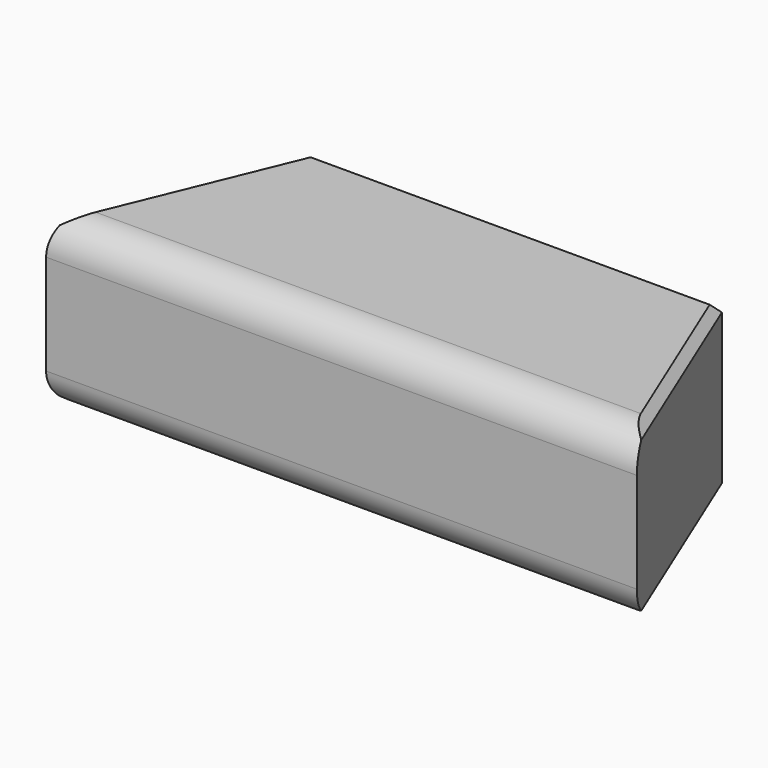
from build123d import *

# Parameters (mm, degrees)
F1_DEPTH = 25.4
F2_SIZE  = 1.27
F3_R     = 5.08
F4_SIZE  = 1.27


with BuildPart() as f1:
    # F0 (on Top) → F1 (new body)
    with BuildSketch(Plane.XY):
        Polygon((13.728917, 33.325016), (0, 0), (89.838997, 0), (76.11008, 33.325016), align=None)
    extrude(amount=F1_DEPTH)

    # F2
    f2_edges = [f1.edges().sort_by_distance(p)[0] for p in [
        (6.864458, 16.662508, 25.4),
        (6.864458, 16.662508, 0),
        (82.974538, 16.662508, 25.4),
        (82.974538, 16.662508, 0),
    ]]
    chamfer(f2_edges, length=F2_SIZE)

    # F3
    f3_edges = [f1.edges().sort_by_distance(p)[0] for p in [
        (44.919498, 0, 0),
        (44.919498, 0, 25.4),
    ]]
    fillet(f3_edges, radius=F3_R)

    # F4
    f4_edges = [f1.edges().sort_by_distance(p)[0] for p in [
        (44.919498, 33.325016, 25.4),
        (44.919498, 33.325016, 0),
    ]]
    chamfer(f4_edges, length=F4_SIZE)


solid = f1.part
